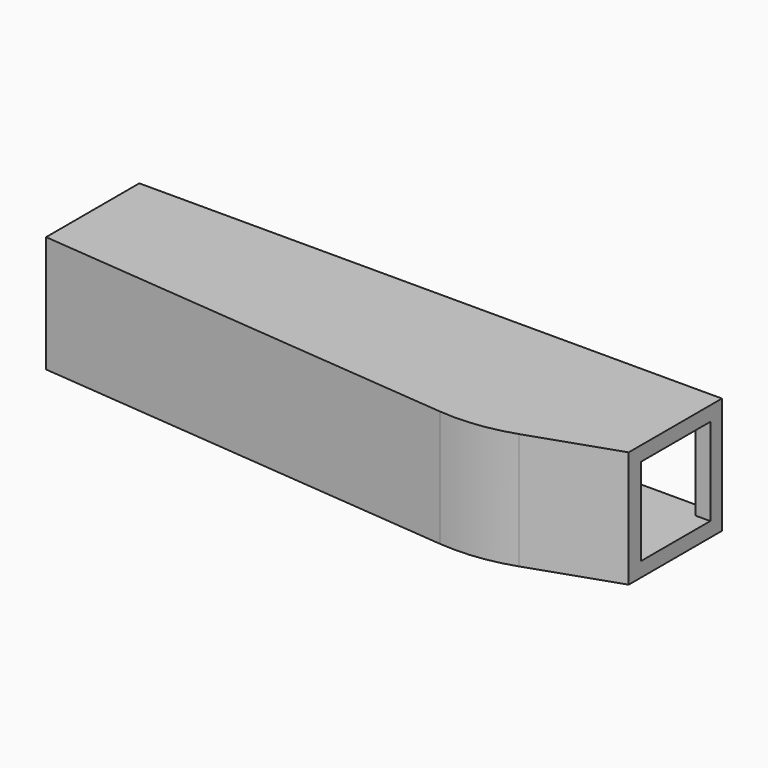
from build123d import *

# Parameters (mm, degrees)
F1_DEPTH = 20
F2_R     = 30
F3_T     = -2.5
F4_W     = 2.5
F4_H     = 2.5
F5_DEPTH = 15


with BuildPart() as f1:
    # F0 (on Top) → F1 (new body)
    with BuildSketch(Plane.XY):
        Polygon((44.264942, 20), (-55.735058, 20), (-55.735058, 0), (23.424878, -7.109921), (44.264942, 0), align=None)
    extrude(amount=F1_DEPTH)

    # F2
    f2_edges = [f1.edges().sort_by_distance(p)[0] for p in [
        (23.424878, -7.109921, 10),
    ]]
    fillet(f2_edges, radius=F2_R)

    # F3
    f3_openings = [f1.faces().sort_by_distance(p)[0] for p in [
        (44.264942, 10, 10),
        (-5.735058, 20, 10),
    ]]
    offset(amount=F3_T, openings=f3_openings)

    # F4 (on face) → F5 (join)
    with BuildSketch(Plane(origin=(0, 0, 17.5), x_dir=(1, 0, 0), z_dir=(0, 0, -1))):
        with Locations((43.014942, -18.75)):
            Rectangle(F4_W, F4_H)
    extrude(amount=F5_DEPTH)


solid = f1.part
